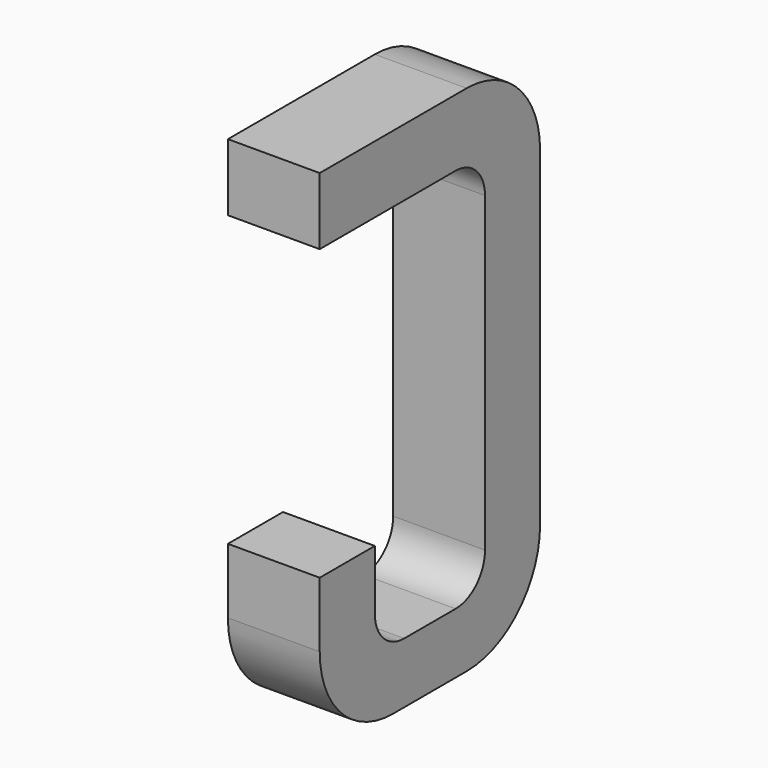
from build123d import *

# Parameters (mm, degrees)
BOX039_W     = 0.5
BOX039_H     = 1.5
BOX039_DEPTH = 2.795
FILLET061_R  = 0.5
FILLET072_R  = 0.5
FILLET082_R  = 0.5
BOX038_W     = 0.75
BOX038_H     = 2.1
BOX038_DEPTH = 1
FILLET085_R  = 0.2
FILLET073_R  = 0.2
FILLET068_R  = 0.2
FILLET084_R  = 0.2
BOX046_W     = 1
BOX046_H     = 1.575
BOX046_DEPTH = 3


with BuildPart() as part:
    # Box039 → Box039 (join)
    with BuildSketch(Plane(origin=(-0.25, 11.125, 0), x_dir=(1, 0, 0), z_dir=(0, 0, 1))):
        with Locations((0.25, 0.75)):
            Rectangle(BOX039_W, BOX039_H)
    extrude(amount=BOX039_DEPTH)

    # Fillet061
    fillet061_edges = [part.edges().sort_by_distance(p)[0] for p in [
        (0, 12.625, 0),
    ]]
    fillet(fillet061_edges, radius=FILLET061_R)

    # Fillet072
    fillet072_edges = [part.edges().sort_by_distance(p)[0] for p in [
        (0, 12.625, 2.795),
    ]]
    fillet(fillet072_edges, radius=FILLET072_R)

    # Fillet082
    fillet082_edges = [part.edges().sort_by_distance(p)[0] for p in [
        (0, 11.125, 0),
    ]]
    fillet(fillet082_edges, radius=FILLET082_R)

    # Box038 → Box038 (cut)
    with BuildSketch(Plane(origin=(-0.5, 11.5, 0.33), x_dir=(0, 1, 0), z_dir=(1, 0, 0))):
        with Locations((0.375, 1.05)):
            Rectangle(BOX038_W, BOX038_H)
    extrude(amount=BOX038_DEPTH, mode=Mode.SUBTRACT)

    # Fillet085
    fillet085_edges = [part.edges().sort_by_distance(p)[0] for p in [
        (0, 11.5, 0.33),
    ]]
    fillet(fillet085_edges, radius=FILLET085_R)

    # Fillet073
    fillet073_edges = [part.edges().sort_by_distance(p)[0] for p in [
        (0, 12.25, 0.33),
    ]]
    fillet(fillet073_edges, radius=FILLET073_R)

    # Fillet068
    fillet068_edges = [part.edges().sort_by_distance(p)[0] for p in [
        (0, 11.5, 2.43),
    ]]
    fillet(fillet068_edges, radius=FILLET068_R)

    # Fillet084
    fillet084_edges = [part.edges().sort_by_distance(p)[0] for p in [
        (0, 12.25, 2.43),
    ]]
    fillet(fillet084_edges, radius=FILLET084_R)

    # Box046 → Box046 (cut)
    with BuildSketch(Plane(origin=(-1, 11, 0.855), x_dir=(0, 1, 0), z_dir=(1, 0, 0))):
        with Locations((0.5, 0.7875)):
            Rectangle(BOX046_W, BOX046_H)
    extrude(amount=BOX046_DEPTH, mode=Mode.SUBTRACT)


with BuildPart() as part_1:
    # Body012 placement: moved
    add(part.part.moved(Location((-7.62, 0, 0))))


solid = part_1.part
